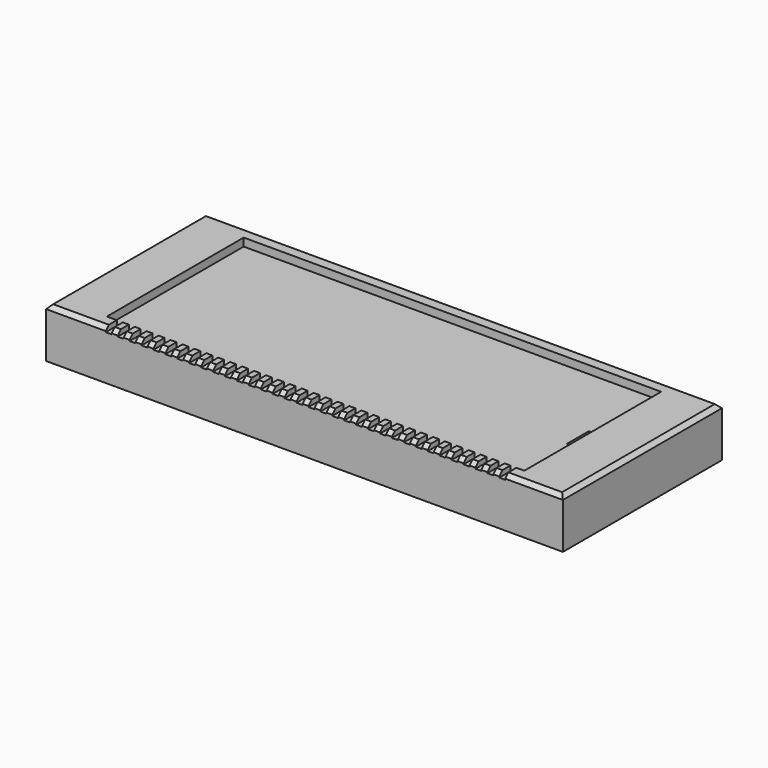
from build123d import *

# Parameters (mm, degrees)
F0_W     = 260
F0_H     = 100
F1_DEPTH = 25
F2_W     = 210
F2_H     = 86
F3_DEPTH = 4
F4_W     = 3
F4_H     = 15
F5_DEPTH = 2.5
F7_SIZE  = 2
F8_SIZE  = 2
F6_W     = 2.758801
F6_H     = 13.793992
F9_DEPTH = 25


with BuildPart() as f1:
    # F0 (on Top) → F1 (new body)
    with BuildSketch(Plane.XY):
        Rectangle(F0_W, F0_H)
    extrude(amount=F1_DEPTH)

    # F2 (on face) → F3 (cut)
    with BuildSketch(Plane.XY.offset(25)):
        Rectangle(F2_W, F2_H)
    extrude(amount=-F3_DEPTH, mode=Mode.SUBTRACT)

    # F4 (on face) → F5 (cut)
    with BuildSketch(Plane.XY.offset(25)):
        with Locations((-98.5, -50.5)):
            Rectangle(F4_W, F4_H)
        with Locations((-92.5, -50.5)):
            Rectangle(F4_W, F4_H)
        with Locations((-86.5, -50.5)):
            Rectangle(F4_W, F4_H)
        with Locations((-80.5, -50.5)):
            Rectangle(F4_W, F4_H)
        with Locations((-74.5, -50.5)):
            Rectangle(F4_W, F4_H)
        with Locations((-68.5, -50.5)):
            Rectangle(F4_W, F4_H)
        with Locations((-62.5, -50.5)):
            Rectangle(F4_W, F4_H)
        with Locations((-56.5, -50.5)):
            Rectangle(F4_W, F4_H)
        with Locations((-50.5, -50.5)):
            Rectangle(F4_W, F4_H)
        with Locations((-44.5, -50.5)):
            Rectangle(F4_W, F4_H)
        with Locations((-38.5, -50.5)):
            Rectangle(F4_W, F4_H)
        with Locations((-32.5, -50.5)):
            Rectangle(F4_W, F4_H)
        with Locations((-26.5, -50.5)):
            Rectangle(F4_W, F4_H)
        with Locations((-20.5, -50.5)):
            Rectangle(F4_W, F4_H)
        with Locations((-14.5, -50.5)):
            Rectangle(F4_W, F4_H)
        with Locations((-8.5, -50.5)):
            Rectangle(F4_W, F4_H)
        with Locations((-2.5, -50.5)):
            Rectangle(F4_W, F4_H)
        with Locations((3.5, -50.5)):
            Rectangle(F4_W, F4_H)
        with Locations((9.5, -50.5)):
            Rectangle(F4_W, F4_H)
        with Locations((15.5, -50.5)):
            Rectangle(F4_W, F4_H)
        with Locations((21.5, -50.5)):
            Rectangle(F4_W, F4_H)
        with Locations((27.5, -50.5)):
            Rectangle(F4_W, F4_H)
        with Locations((33.5, -50.5)):
            Rectangle(F4_W, F4_H)
        with Locations((39.5, -50.5)):
            Rectangle(F4_W, F4_H)
        with Locations((45.5, -50.5)):
            Rectangle(F4_W, F4_H)
        with Locations((51.5, -50.5)):
            Rectangle(F4_W, F4_H)
        with Locations((57.5, -50.5)):
            Rectangle(F4_W, F4_H)
        with Locations((63.5, -50.5)):
            Rectangle(F4_W, F4_H)
        with Locations((69.5, -50.5)):
            Rectangle(F4_W, F4_H)
        with Locations((75.5, -50.5)):
            Rectangle(F4_W, F4_H)
        with Locations((81.5, -50.5)):
            Rectangle(F4_W, F4_H)
        with Locations((87.5, -50.5)):
            Rectangle(F4_W, F4_H)
        with Locations((93.5, -50.5)):
            Rectangle(F4_W, F4_H)
        with Locations((99.5, -50.5)):
            Rectangle(F4_W, F4_H)
    extrude(amount=-F5_DEPTH, mode=Mode.SUBTRACT)

    # F7
    f7_edges = [f1.edges().sort_by_distance(p)[0] for p in [
        (130, 0, 25),
        (0, 50, 25),
        (0.5, -50, 25),
        (-130, 0, 25),
    ]]
    chamfer(f7_edges, length=F7_SIZE)

    # F8
    f8_edges = [f1.edges().sort_by_distance(p)[0] for p in [
        (114.5, -50, 25),
        (-114, -50, 25),
        (96.5, -50, 25),
        (-95.5, -50, 25),
        (90.5, -50, 25),
        (-89.5, -50, 25),
        (84.5, -50, 25),
        (-83.5, -50, 25),
        (78.5, -50, 25),
        (-77.5, -50, 25),
        (72.5, -50, 25),
        (-71.5, -50, 25),
        (66.5, -50, 25),
        (-65.5, -50, 25),
        (60.5, -50, 25),
        (-59.5, -50, 25),
        (54.5, -50, 25),
        (-53.5, -50, 25),
        (48.5, -50, 25),
        (-47.5, -50, 25),
        (42.5, -50, 25),
        (-41.5, -50, 25),
        (36.5, -50, 25),
        (-35.5, -50, 25),
        (30.5, -50, 25),
        (-29.5, -50, 25),
        (24.5, -50, 25),
        (-23.5, -50, 25),
        (18.5, -50, 25),
        (-17.5, -50, 25),
        (12.5, -50, 25),
        (-11.5, -50, 25),
        (6.5, -50, 25),
        (-5.5, -50, 25),
    ]]
    chamfer(f8_edges, length=F8_SIZE)

    # F6 (on face) → F9 (cut)
    with BuildSketch(Plane.XY.offset(21)):
        with Locations((100.388251, -1.806707)):
            Rectangle(F6_W, F6_H)
    extrude(amount=-F9_DEPTH, mode=Mode.SUBTRACT)


solid = f1.part
